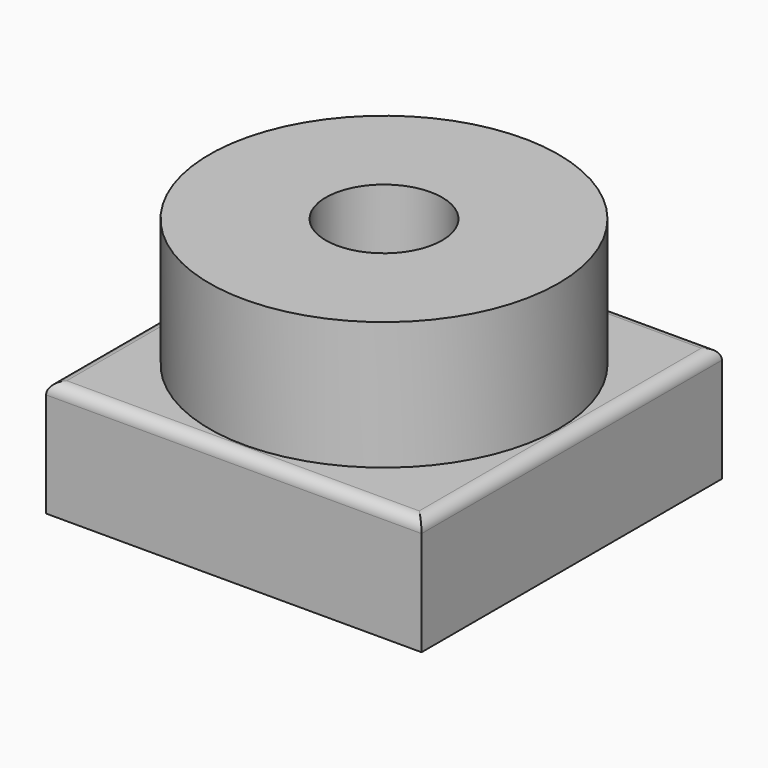
from build123d import *

# Parameters (mm, degrees)
F0_W     = 165.245458
F0_H     = 165.245458
F0_R     = 25.603294
F2_DEPTH = 51.054
F3_R     = 5.08
F1_R     = 76.809882
F1_R_2   = 25.603294
F4_DEPTH = 107.442


with BuildPart() as f2:
    # F0 (on Top) → F2 (new body)
    with BuildSketch(Plane.XY):
        Rectangle(F0_W, F0_H)
        Circle(F0_R, mode=Mode.SUBTRACT)
    extrude(amount=F2_DEPTH)

    # F3
    f3_edges = [f2.edges().sort_by_distance(p)[0] for p in [
        (-82.622729, 0, 51.054),
        (0, -82.622729, 51.054),
        (82.622729, 0, 51.054),
        (0, 82.622729, 51.054),
    ]]
    fillet(f3_edges, radius=F3_R)

    # F1 (on face) → F4 (join)
    with BuildSketch(Plane.XY):
        Circle(F1_R)
        Circle(F1_R_2, mode=Mode.SUBTRACT)
    extrude(amount=F4_DEPTH)


solid = f2.part
